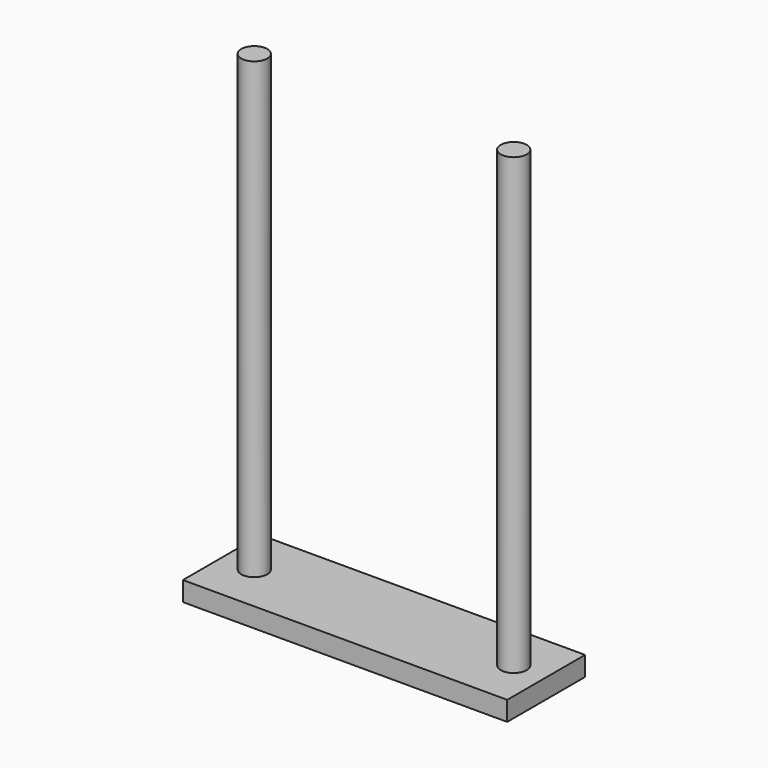
from build123d import *

# Parameters (mm, degrees)
F0_W     = 50
F0_H     = 15
F1_DEPTH = 3
F2_R     = 2
F3_DEPTH = 70


with BuildPart() as f1:
    # F0 (on Top) → F1 (new body)
    with BuildSketch(Plane.XY):
        Rectangle(F0_W, F0_H)
    extrude(amount=F1_DEPTH)


with BuildPart() as f3:
    # F2 (on face) → F3 (new body)
    with BuildSketch(Plane.XY.offset(3)):
        with Locations((-20, 0)):
            Circle(F2_R)
    extrude(amount=F3_DEPTH)


with BuildPart() as f4_1:
    # F4: instance of F3
    add(f3.part.mirror(Plane.YZ))


solid = Compound([f1.part, f3.part, f4_1.part])
